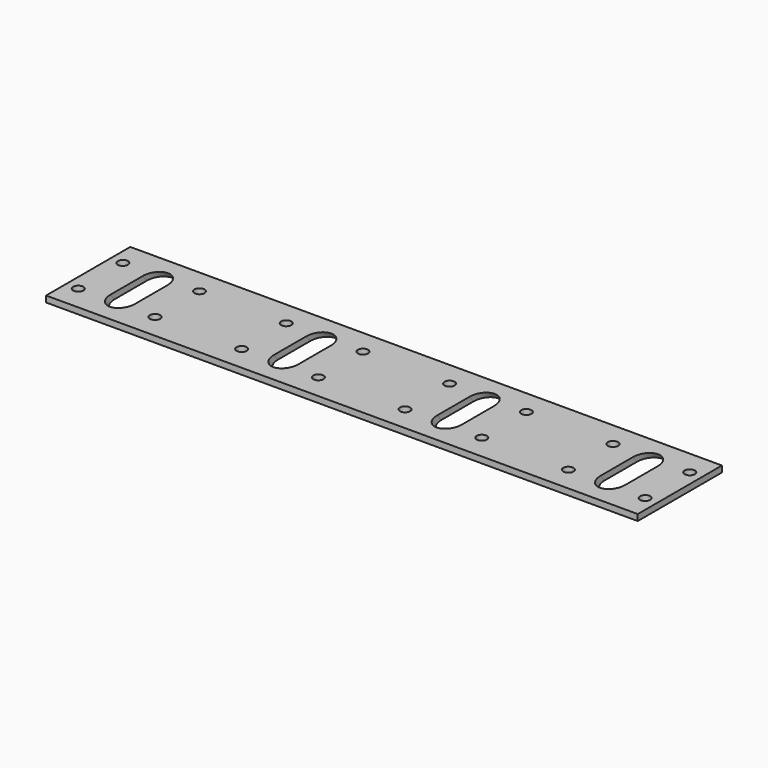
from build123d import *

# Parameters (mm, degrees)
F0_W     = 478
F0_H     = 85
F1_DEPTH = 5
F2_D     = 8.25
F5_DEPTH = 54.637947


with BuildPart() as f1:
    # F0 (on Top) → F1 (new body)
    with BuildSketch(Plane.XY):
        Rectangle(F0_W, F0_H)
    extrude(amount=F1_DEPTH)

    # F2 (through all)
    with Locations(Plane(origin=(0, 0, 0), x_dir=(1, 0, 0), z_dir=(0, 0, -1))):
        with Locations((-229, 22.5), (-229, -22.5), (-167, 22.5), (-167, -22.5), (-97, 22.5), (-97, -22.5), (-35, 22.5), (-35, -22.5), (35, 22.5), (35, -22.5), (97, 22.5), (97, -22.5), (167, 22.5), (167, -22.5), (229, 22.5), (229, -22.5)):
            Hole(F2_D / 2)

    # F4 (on face) → F5 (cut, through all)
    with BuildSketch(Plane(origin=(0, 15.097957, -17.993044), x_dir=(1, 0, 0), z_dir=(0, -0.642788, 0.766044))):
        with BuildLine():
            ThreePointArc((188, -9.279173), (198, -19.279173), (208, -9.279173))
            Line((208, -9.279173), (208, 15.720827))
            ThreePointArc((208, 15.720827), (198, 25.720827), (188, 15.720827))
            Line((188, 15.720827), (188, -9.279173))
        make_face()
        with BuildLine():
            Line((56, 15.720827), (56, -9.279173))
            ThreePointArc((56, -9.279173), (66, -19.279173), (76, -9.279173))
            Line((76, -9.279173), (76, 15.720827))
            ThreePointArc((76, 15.720827), (66, 25.720827), (56, 15.720827))
        make_face()
        with BuildLine():
            Line((-76, 15.720827), (-76, -9.279173))
            ThreePointArc((-76, -9.279173), (-66, -19.279173), (-56, -9.279173))
            Line((-56, -9.279173), (-56, 15.720827))
            ThreePointArc((-56, 15.720827), (-66, 25.720827), (-76, 15.720827))
        make_face()
        with BuildLine():
            Line((-208, 15.720827), (-208, -9.279173))
            ThreePointArc((-208, -9.279173), (-198, -19.279173), (-188, -9.279173))
            Line((-188, -9.279173), (-188, 15.720827))
            ThreePointArc((-188, 15.720827), (-198, 25.720827), (-208, 15.720827))
        make_face()
    extrude(amount=F5_DEPTH, mode=Mode.SUBTRACT)


solid = f1.part
